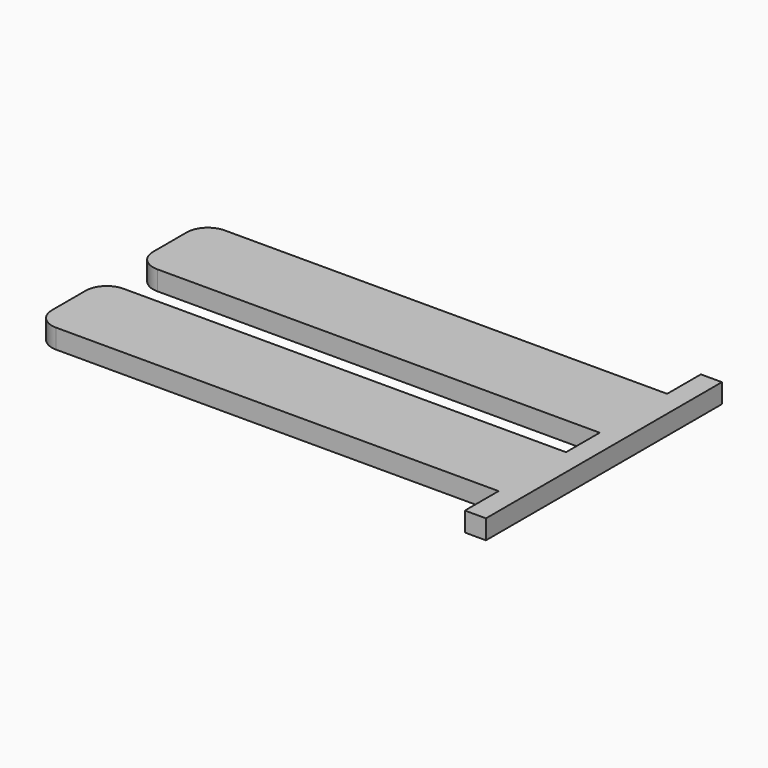
from build123d import *

# Parameters (mm, degrees)
F1_DEPTH = 5.842


with BuildPart() as f1:
    # F0 (on Top) → F1 (new body)
    with BuildSketch(Plane.XY):
        with BuildLine():
            Line((95.142507, 46.804437), (-38.207493, 46.804437))
            ThreePointArc((-38.207493, 46.804437), (-42.697621, 44.944565), (-44.557493, 40.454437))
            Line((-44.557493, 40.454437), (-44.557493, 27.754437))
            ThreePointArc((-44.557493, 27.754437), (-42.697621, 23.264309), (-38.207493, 21.404437))
            Line((-38.207493, 21.404437), (95.142507, 21.404437))
            Line((95.142507, 21.404437), (95.142507, 8.704437))
            Line((95.142507, 8.704437), (-38.207493, 8.704437))
            ThreePointArc((-38.207493, 8.704437), (-42.697621, 6.844565), (-44.557493, 2.354437))
            Line((-44.557493, 2.354437), (-44.557493, -10.345563))
            ThreePointArc((-44.557493, -10.345563), (-42.697621, -14.835691), (-38.207493, -16.695563))
            Line((-38.207493, -16.695563), (95.142507, -16.695563))
            Line((95.142507, -16.695563), (95.142507, -29.395563))
            Line((95.142507, -29.395563), (101.492507, -29.395563))
            Line((101.492507, -29.395563), (101.492507, 59.504437))
            Line((101.492507, 59.504437), (95.142507, 59.504437))
            Line((95.142507, 59.504437), (95.142507, 46.804437))
        make_face()
    extrude(amount=F1_DEPTH)


solid = f1.part
